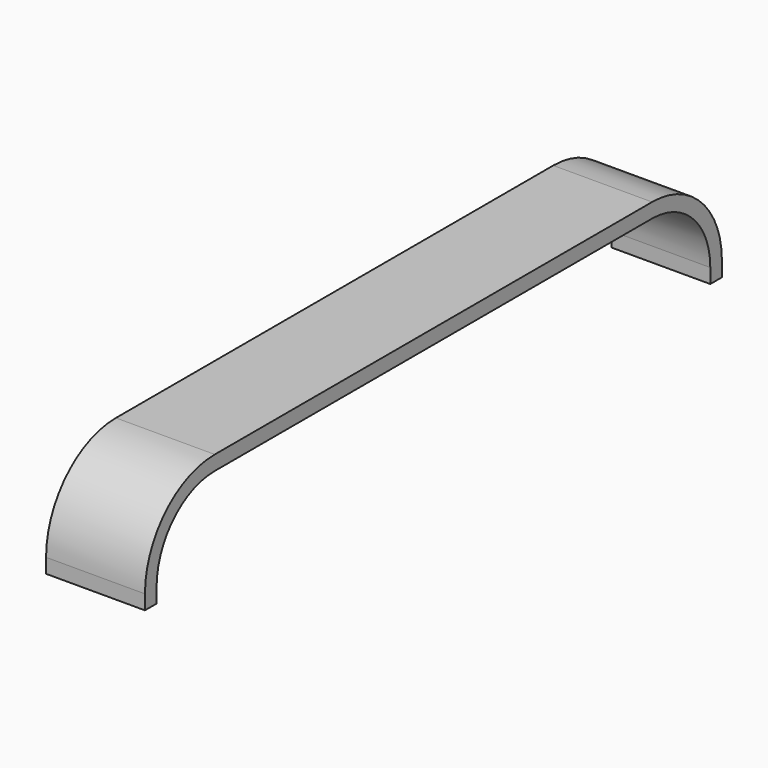
from build123d import *

# Parameters (mm, degrees)
F1_DEPTH = 170


with BuildPart() as f1:
    # F0 (on Right) → F1 (new body, symmetric)
    with BuildSketch(Plane.YZ):
        with BuildLine():
            Line((0, 50), (0, 0))
            Line((0, 0), (50, 0))
            Line((50, 0), (50, 50))
            ThreePointArc((50, 50), (123.223305, 226.776695), (300, 300))
            Line((300, 300), (2180, 300))
            ThreePointArc((2180, 300), (2356.776695, 226.776695), (2430, 50))
            Line((2430, 50), (2430, 0))
            Line((2430, 0), (2480, 0))
            Line((2480, 0), (2480, 50))
            ThreePointArc((2480, 50), (2392.132034, 262.132034), (2180, 350))
            Line((2180, 350), (300, 350))
            ThreePointArc((300, 350), (87.867966, 262.132034), (0, 50))
        make_face()
    extrude(amount=F1_DEPTH, both=True)


solid = f1.part
